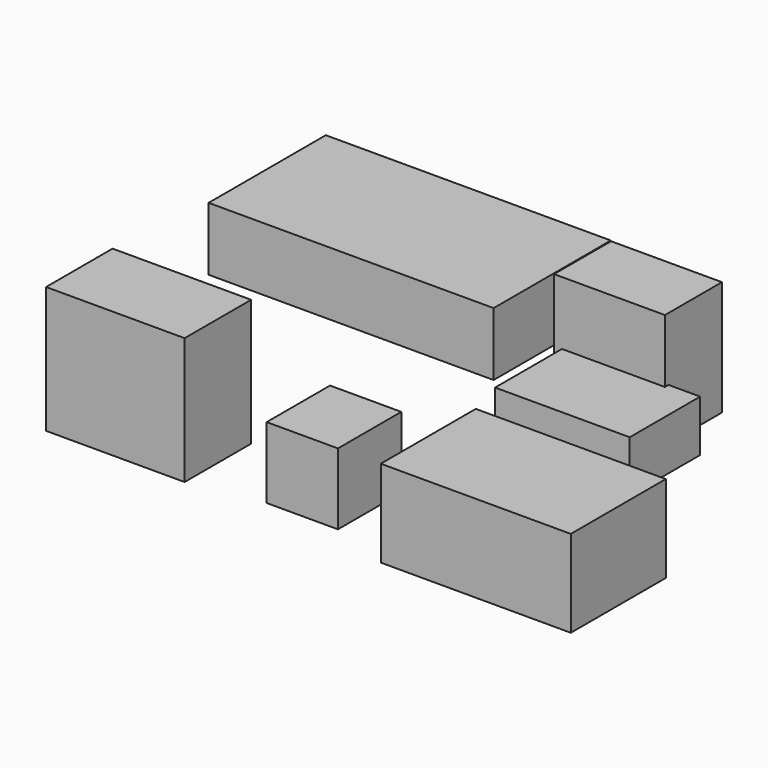
from build123d import *

# Parameters (mm, degrees)
F0_W      = 914.4
F0_H      = 469.9
F1_DEPTH  = 203.2
F2_W      = 355.6
F2_H      = 368.3
F3_DEPTH  = 228.6
F4_W      = 431.8
F4_H      = 282.575
F5_DEPTH  = 165.1
F6_W      = 444.5
F6_H      = 406.4
F7_DEPTH  = 266.7
F8_W      = 228.6
F8_H      = 228.6
F9_DEPTH  = 254
F10_ANGLE = 90
F11_ANGLE = 90
F12_ANGLE = 90
F13_W     = 609.6
F13_H     = 381
F14_DEPTH = 279.4


with BuildPart() as f1:
    # F0 (on Top) → F1 (new body)
    with BuildSketch(Plane.XY):
        with Locations((123.9818868814, 15.3985628858)):
            Rectangle(F0_W, F0_H)
    extrude(amount=F1_DEPTH)


with BuildPart() as f3:
    # F2 (on Top) → F3 (new body)
    with BuildSketch(Plane.XY):
        with Locations((960.1873805769, 184.15)):
            Rectangle(F2_W, F2_H)
    extrude(amount=F3_DEPTH)


with BuildPart() as f5:
    # F4 (on Top) → F5 (new body)
    with BuildSketch(Plane.XY):
        with Locations((1023.5079228878, -355.352825508)):
            Rectangle(F4_W, F4_H)
    extrude(amount=F5_DEPTH)


with BuildPart() as f7:
    # F6 (on Top) → F7 (new body)
    with BuildSketch(Plane.XY):
        with Locations((100.1788824797, -665.4532204968)):
            Rectangle(F6_W, F6_H)
    extrude(amount=F7_DEPTH)


with BuildPart() as f9:
    # F8 (on Top) → F9 (new body)
    with BuildSketch(Plane.XY):
        with Locations((668.3504283428, -727.4788362073)):
            Rectangle(F8_W, F8_H)
    extrude(amount=F9_DEPTH)


with BuildPart() as f3_1:
    # F10: moved
    add(f3.part.rotate(Axis((960.1873805769, 0, 0), (1, 0, 0)), F10_ANGLE))


with BuildPart() as f7_1:
    # F11: moved
    add(f7.part.rotate(Axis((100.1788824797, -868.6532204968, 0), (1, 0, 0)), F11_ANGLE))


with BuildPart() as f9_1:
    # F12: moved
    add(f9.part.rotate(Axis((668.3504283428, -841.7788362073, 0), (1, 0, 0)), F12_ANGLE))


with BuildPart() as f14:
    # F13 (on Top) → F14 (new body)
    with BuildSketch(Plane.XY):
        with Locations((1284.0712362805, -979.1704416275)):
            Rectangle(F13_W, F13_H)
    extrude(amount=F14_DEPTH)


solid = Compound([f1.part, f5.part, f3_1.part, f7_1.part, f9_1.part, f14.part])
